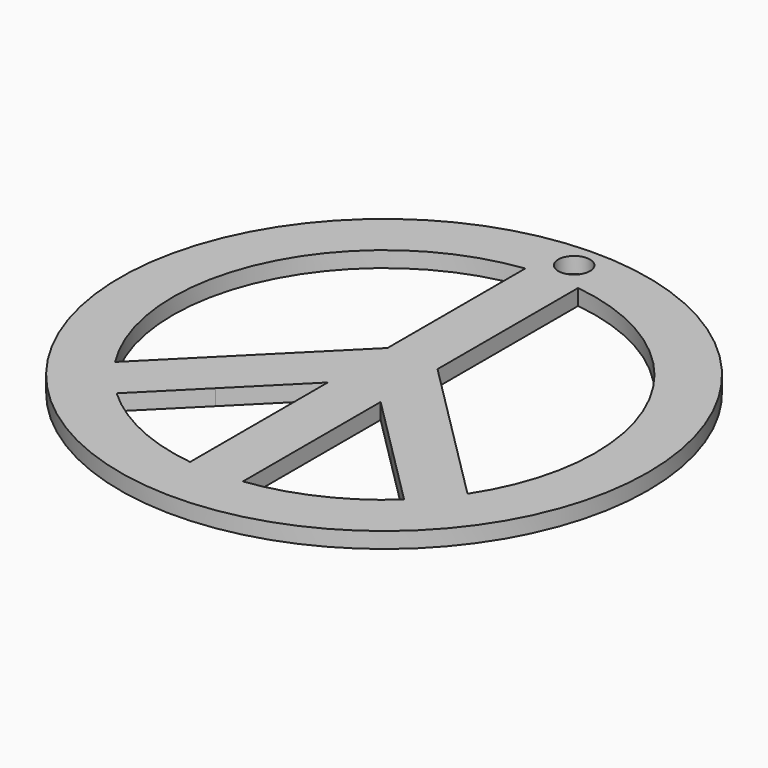
from build123d import *

# Parameters (mm, degrees)
F0_R     = 50
F1_DEPTH = 3
F2_DEPTH = 3
F4_DEPTH = 25


with BuildPart() as f1:
    # F0 (on Top) → F1 (new body)
    with BuildSketch(Plane.XY):
        Circle(F0_R)
        with BuildLine():
            Line((-16.798327, -18.869394), (-5, -7.071068))
            Line((-5, -7.071068), (-5, -39.68627))
            ThreePointArc((-5, -39.68627), (-16.930856, -36.240118), (-27.229775, -29.300842))
            Line((-27.229775, -29.300842), (-16.798327, -18.869394))
        make_face(mode=Mode.SUBTRACT)
        with BuildLine():
            Line((5, -39.68627), (5, -7.071068))
            Line((5, -7.071068), (15.141531, -17.212599))
            Line((15.141531, -17.212599), (27.229775, -29.300842))
            ThreePointArc((27.229775, -29.300842), (16.930856, -36.240118), (5, -39.68627))
        make_face(mode=Mode.SUBTRACT)
        with BuildLine():
            ThreePointArc((-33.668346, -21.597279), (-36.231596, 16.949083), (-5, 39.68627))
            Line((-5, 39.68627), (-5, 7.071068))
            Line((-5, 7.071068), (-23.869394, -11.798327))
            Line((-23.869394, -11.798327), (-33.668346, -21.597279))
        make_face(mode=Mode.SUBTRACT)
        with BuildLine():
            Line((11.400651, 0), (5, 6.400651))
            Line((5, 6.400651), (5, 39.68627))
            ThreePointArc((5, 39.68627), (36.333601, 16.729299), (33.404229, -22.003578))
            Line((33.404229, -22.003578), (21.87739, -10.476739))
            Line((21.87739, -10.476739), (11.400651, 0))
        make_face(mode=Mode.SUBTRACT)
    extrude(amount=F1_DEPTH)

    # F0 (on Top) → F2 (join)
    with BuildSketch(Plane.XY):
        Circle(F0_R)
        with BuildLine():
            Line((-16.798327, -18.869394), (-5, -7.071068))
            Line((-5, -7.071068), (-5, -39.68627))
            ThreePointArc((-5, -39.68627), (-16.930856, -36.240118), (-27.229775, -29.300842))
            Line((-27.229775, -29.300842), (-16.798327, -18.869394))
        make_face(mode=Mode.SUBTRACT)
        with BuildLine():
            Line((5, -39.68627), (5, -7.071068))
            Line((5, -7.071068), (15.141531, -17.212599))
            Line((15.141531, -17.212599), (27.229775, -29.300842))
            ThreePointArc((27.229775, -29.300842), (16.930856, -36.240118), (5, -39.68627))
        make_face(mode=Mode.SUBTRACT)
        with BuildLine():
            ThreePointArc((-33.668346, -21.597279), (-36.231596, 16.949083), (-5, 39.68627))
            Line((-5, 39.68627), (-5, 7.071068))
            Line((-5, 7.071068), (-23.869394, -11.798327))
            Line((-23.869394, -11.798327), (-33.668346, -21.597279))
        make_face(mode=Mode.SUBTRACT)
        with BuildLine():
            Line((11.400651, 0), (5, 6.400651))
            Line((5, 6.400651), (5, 39.68627))
            ThreePointArc((5, 39.68627), (36.333601, 16.729299), (33.404229, -22.003578))
            Line((33.404229, -22.003578), (21.87739, -10.476739))
            Line((21.87739, -10.476739), (11.400651, 0))
        make_face(mode=Mode.SUBTRACT)
    extrude(amount=F2_DEPTH)

    # F3 (on face) → F4 (cut)
    with BuildSketch(Plane.XY.offset(3)):
        with BuildLine():
            ThreePointArc((0, 42), (2.12132, 42.87868), (3, 45))
            ThreePointArc((3, 45), (-2.12132, 47.12132), (0, 42))
        make_face()
    extrude(amount=-F4_DEPTH, mode=Mode.SUBTRACT)


solid = f1.part
